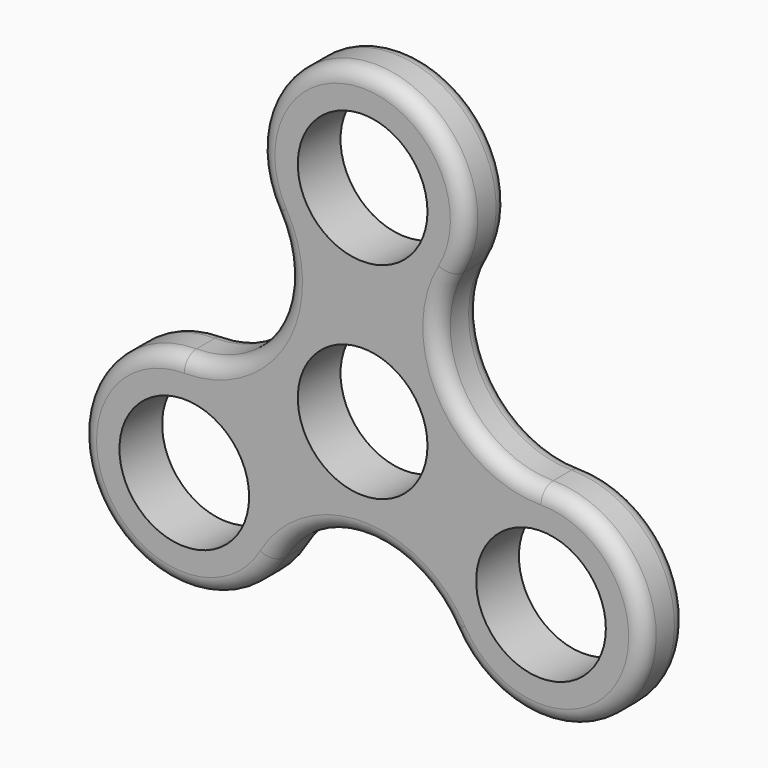
from build123d import *

# Parameters (mm, degrees)
F0_R     = 8.5
F1_DEPTH = 7
F2_R     = 2
F3_R     = 2


with BuildPart() as f1:
    # F0 (on Front) → F1 (new body)
    with BuildSketch(Plane.XZ):
        with BuildLine():
            ThreePointArc((23.382686, 0), (11.691343, 6.75), (11.691343, 20.25))
            ThreePointArc((11.691343, 20.25), (0, 40.5), (-11.691343, 20.25))
            ThreePointArc((-11.691343, 20.25), (-11.691343, 6.75), (-23.382686, 0))
            ThreePointArc((-23.382686, 0), (-35.074029, -20.25), (-11.691343, -20.25))
            ThreePointArc((-11.691343, -20.25), (0, -13.5), (11.691343, -20.25))
            ThreePointArc((11.691343, -20.25), (35.074029, -20.25), (23.382686, 0))
        make_face()
        with Locations((-23.382686, -13.5)):
            Circle(F0_R, mode=Mode.SUBTRACT)
        with Locations((23.382686, -13.5)):
            Circle(F0_R, mode=Mode.SUBTRACT)
        Circle(F0_R, mode=Mode.SUBTRACT)
        with Locations((0, 27)):
            Circle(F0_R, mode=Mode.SUBTRACT)
    extrude(amount=F1_DEPTH)

    # F2
    f2_edges = [f1.edges().sort_by_distance(p)[0] for p in [
        (-35.074029, -7, -20.25),
        (0, -7, -13.5),
        (35.074029, -7, -20.25),
        (11.691343, -7, 6.75),
        (0, -7, 40.5),
        (-11.691343, -7, 6.75),
    ]]
    fillet(f2_edges, radius=F2_R)

    # F3
    f3_edges = [f1.edges().sort_by_distance(p)[0] for p in [
        (-35.074029, 0, -20.25),
        (0, 0, -13.5),
        (35.074029, 0, -20.25),
    ]]
    fillet(f3_edges, radius=F3_R)


solid = f1.part
